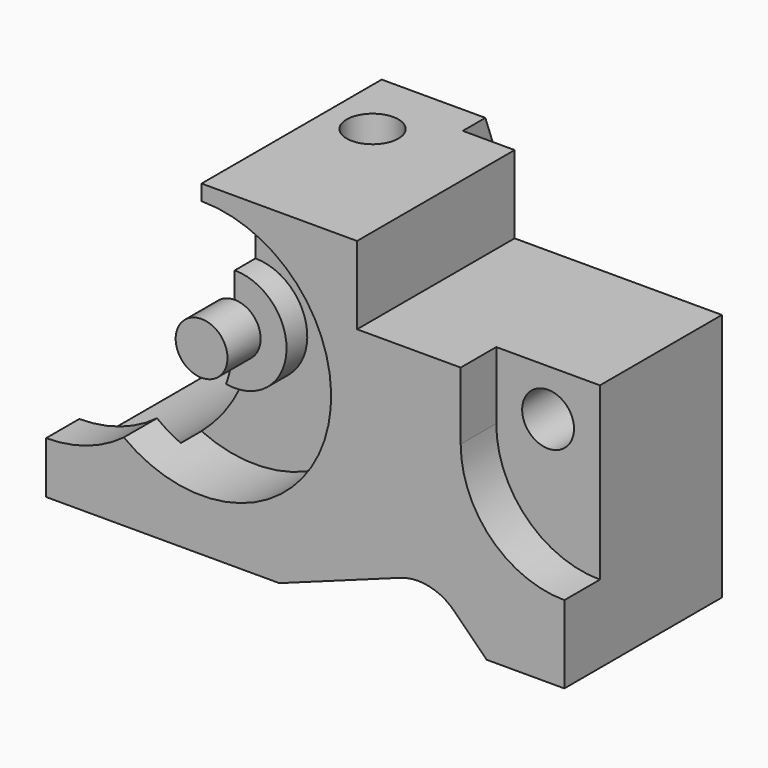
from build123d import *

# Parameters (mm, degrees)
F1_DEPTH  = 50
F3_DEPTH  = 8.575
F4_R      = 5
F5_DEPTH  = 41.426
F6_W      = 40
F6_H      = 15
F7_DEPTH  = 50.001
F8_W      = 50
F8_H      = 12
F9_DEPTH  = 63.001
F11_R     = 25
F12_DEPTH = 13
F13_R     = 10
F14_DEPTH = 5
F16_DEPTH = 50.001
F18_DEPTH = 42.001
F19_W     = 5
F19_H     = 5.9455953582
F20_DEPTH = 25
F21_R     = 5
F22_DEPTH = 8
F23_R     = 5
F24_DEPTH = 63.001
F26_DEPTH = 70.001


with BuildPart() as f1:
    # F0 (on Front) → F1 (new body)
    with BuildSketch(Plane.XZ):
        with BuildLine():
            Line((35, -31.5), (50, -31.5))
            Line((50, -31.5), (50, 31.5))
            Line((50, 31.5), (-50, 31.5))
            Line((-50, 31.5), (-50, -31.5))
            Line((-50, -31.5), (-5, -31.5))
            Line((-5, -31.5), (18.3396509331, -23.0050617822))
            ThreePointArc((18.3396509331, -23.0050617822), (23.9242485057, -22.6390279189), (28.8309201782, -25.3309201782))
            Line((28.8309201782, -25.3309201782), (35, -31.5))
        make_face()
    extrude(amount=F1_DEPTH)

    # F2 (on face) → F3 (cut)
    with BuildSketch(Plane.XZ.offset(50)):
        with BuildLine():
            Line((30, 31.5), (30, 3.5))
            ThreePointArc((30, 3.5), (35.8578643763, -10.6421356237), (50, -16.5))
            Line((50, -16.5), (50, 31.5))
            Line((50, 31.5), (30, 31.5))
        make_face()
    extrude(amount=-F3_DEPTH, mode=Mode.SUBTRACT)

    # F4 (on face) → F5 (cut, through all)
    with BuildSketch(Plane.XZ.offset(41.425)):
        with Locations((40, 7.5)):
            Circle(F4_R)
    extrude(amount=-F5_DEPTH, mode=Mode.SUBTRACT)

    # F6 (on Front) → F7 (cut, through all)
    with BuildSketch(Plane.XZ):
        with Locations((30, 24)):
            Rectangle(F6_W, F6_H)
    extrude(amount=F7_DEPTH, mode=Mode.SUBTRACT)

    # F8 (on face) → F9 (cut, through all)
    with BuildSketch(Plane.XY.offset(31.5)):
        with Locations((25, -6)):
            Rectangle(F8_W, F8_H)
    extrude(amount=-F9_DEPTH, mode=Mode.SUBTRACT)

    # F11 (on face) → F12 (cut)
    with BuildSketch(Plane.XZ.offset(50)):
        with Locations((-20, 3.5)):
            Circle(F11_R)
    extrude(amount=-F12_DEPTH, mode=Mode.SUBTRACT)

    # F13 (on face) → F14 (join)
    with BuildSketch(Plane.XZ.offset(37)):
        with Locations((-20, 3.5)):
            Circle(F13_R)
    extrude(amount=F14_DEPTH)

    # F15 (on face) → F16 (cut, through all)
    with BuildSketch(Plane.XZ.offset(50)):
        with BuildLine():
            Line((-50, 31.5), (-50, -21.5))
            ThreePointArc((-50, -21.5), (-32.3223304703, -14.1776695297), (-25, 3.5))
            Line((-25, 3.5), (-25, 31.5))
            Line((-25, 31.5), (-50, 31.5))
        make_face()
    extrude(amount=-F16_DEPTH, mode=Mode.SUBTRACT)

    # F17 (on offset) → F18 (cut, through all)
    with BuildSketch(Plane.XZ.offset(42)):
        with BuildLine():
            Line((-50, 31.5), (-50, -26.5))
            ThreePointArc((-50, -26.5), (-28.7867965644, -17.7132034356), (-20, 3.5))
            Line((-20, 3.5), (-20, 31.5))
            Line((-20, 31.5), (-50, 31.5))
        make_face()
    extrude(amount=-F18_DEPTH, mode=Mode.SUBTRACT)

    # F19 (on face) → F20 (cut)
    with BuildSketch(Plane.XZ.offset(50)):
        with Locations((-22.5, 28.5272023209)):
            Rectangle(F19_W, F19_H)
    extrude(amount=-F20_DEPTH, mode=Mode.SUBTRACT)

    # F21 (on face) → F22 (join)
    with BuildSketch(Plane.XZ.offset(42)):
        with Locations((-20, 3.5)):
            Circle(F21_R)
    extrude(amount=F22_DEPTH)

    # F23 (on face) → F24 (cut, through all)
    with BuildSketch(Plane.XY.offset(31.5)):
        with Locations((-11, -20)):
            Circle(F23_R)
    extrude(amount=-F24_DEPTH, mode=Mode.SUBTRACT)

    # F25 (on face) → F26 (cut, through all)
    with BuildSketch(Plane(origin=(-20, 0, 0), x_dir=(0, -1, 0), z_dir=(-1, 0, 0))):
        Polygon((0, 31.5), (0, 13.5), (6.5514642168, 31.5), align=None)
    extrude(amount=-F26_DEPTH, mode=Mode.SUBTRACT)


solid = f1.part
